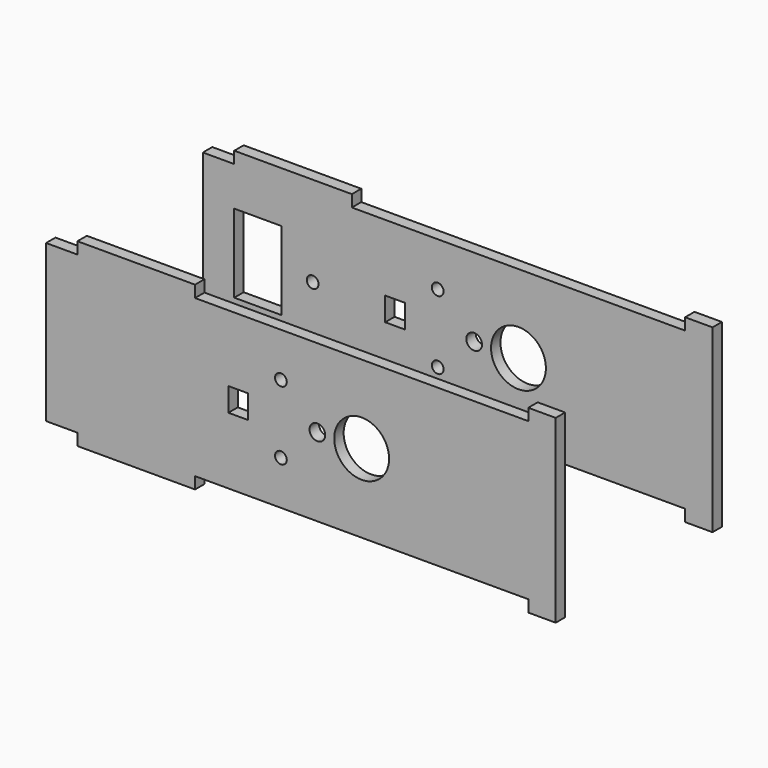
from build123d import *

# Parameters (mm, degrees)
PAD003_DEPTH    = 3
SKETCH013_R     = 7
SKETCH013_R_2   = 2
SKETCH013_R_3   = 1.5
SKETCH013_W     = 5
SKETCH013_H     = 6
POCKET009_DEPTH = 3.001
SKETCH015_R     = 1.5
SKETCH015_W     = 12
SKETCH015_H     = 20
POCKET_DEPTH    = 3.001


with BuildPart() as obj1:
    # Sketch012 → Pad003 (new body)
    with BuildSketch(Plane.XZ):
        Polygon((-80.5, 43), (-72.5, 43), (-72.5, 46), (-42.5, 46), (-42.5, 43), (42.5, 43), (42.5, 46), (49.5, 46), (49.5, 0), (42.5, 0), (42.5, 3), (-42.5, 3), (-42.5, 0), (-72.5, 0), (-72.5, 3), (-80.5, 3), align=None)
    extrude(amount=PAD003_DEPTH)

    # Sketch013 → Pocket009 (cut, through all)
    with BuildSketch(Plane.XZ.offset(3)):
        with Locations((0, 23)):
            Circle(SKETCH013_R)
        with Locations((-11.3, 23)):
            Circle(SKETCH013_R_2)
        with Locations((-20.6, 31.75)):
            Circle(SKETCH013_R_3)
        with Locations((-20.6, 14.25)):
            Circle(SKETCH013_R_3)
        with Locations((-31.5, 23)):
            Rectangle(SKETCH013_W, SKETCH013_H)
    extrude(amount=-POCKET009_DEPTH, mode=Mode.SUBTRACT)


with BuildPart() as obj2:
    # Clone base: copy of obj1
    add(obj1.part)


with BuildPart() as obj2_1:
    # Clone placement: moved
    add(obj2.part.moved(Location((0, 50, 0))))

    # Sketch015 → Pocket (cut, through all)
    with BuildSketch(Plane(origin=(0, 50, 0), x_dir=(1, 0, 0), z_dir=(0, 1, 0))):
        with Locations((-52.5, -23)):
            Circle(SKETCH015_R)
        with Locations((-66.5, -23)):
            Rectangle(SKETCH015_W, SKETCH015_H)
    extrude(amount=-POCKET_DEPTH, mode=Mode.SUBTRACT)


solid = Compound([obj1.part, obj2_1.part])
